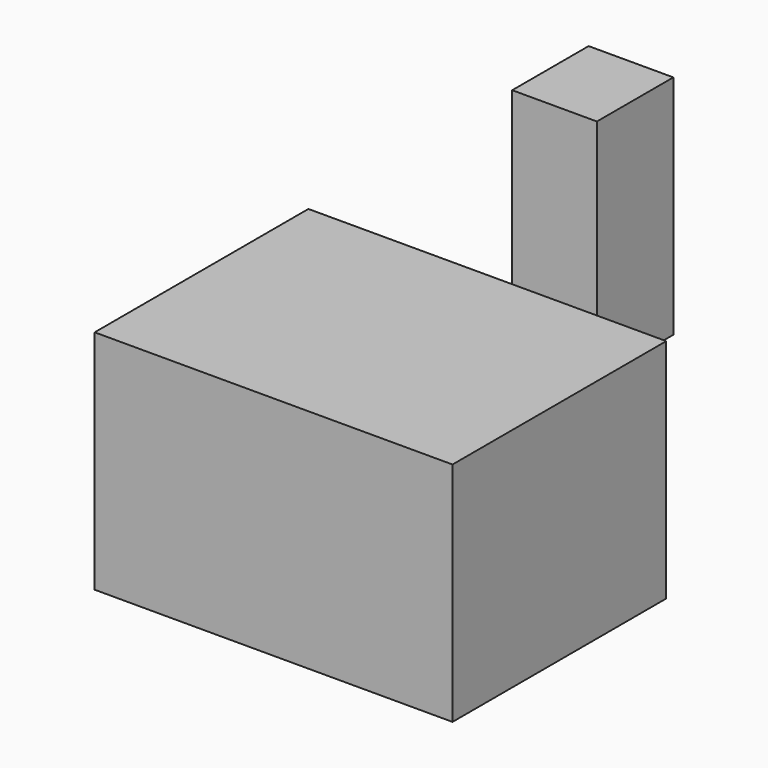
from build123d import *

# Parameters (mm, degrees)
F0_W     = 9.49417
F0_H     = 10.707672
F0_W_2   = 40.107838
F0_H_2   = 29.944072
F1_DEPTH = 25.4


with BuildPart() as f1:
    # F0 (on Top) → F1 (new body)
    with BuildSketch(Plane.XY):
        with Locations((-102.938108, 18.600222)):
            Rectangle(F0_W, F0_H)
        with Locations((-87.499816, -30.443563)):
            Rectangle(F0_W_2, F0_H_2)
    extrude(amount=F1_DEPTH)


solid = f1.part
